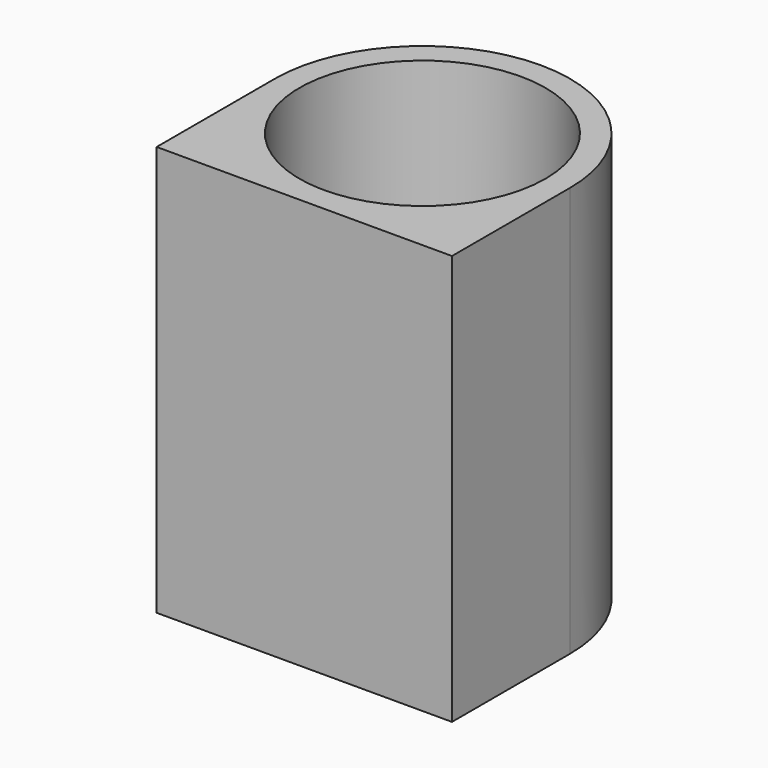
from build123d import *

# Parameters (mm, degrees)
SKETCH_R  = 15
PAD_DEPTH = 50


with BuildPart() as part:
    # Sketch → Pad (new body)
    with BuildSketch(Plane.XY):
        with BuildLine():
            ThreePointArc((18, 0), (0, 18), (-18, 0))
            Line((-18, -18), (-18, 0))
            Line((18, -18), (-18, -18))
            Line((18, 0), (18, -18))
        make_face()
        Circle(SKETCH_R, mode=Mode.SUBTRACT)
    extrude(amount=PAD_DEPTH)


solid = part.part
